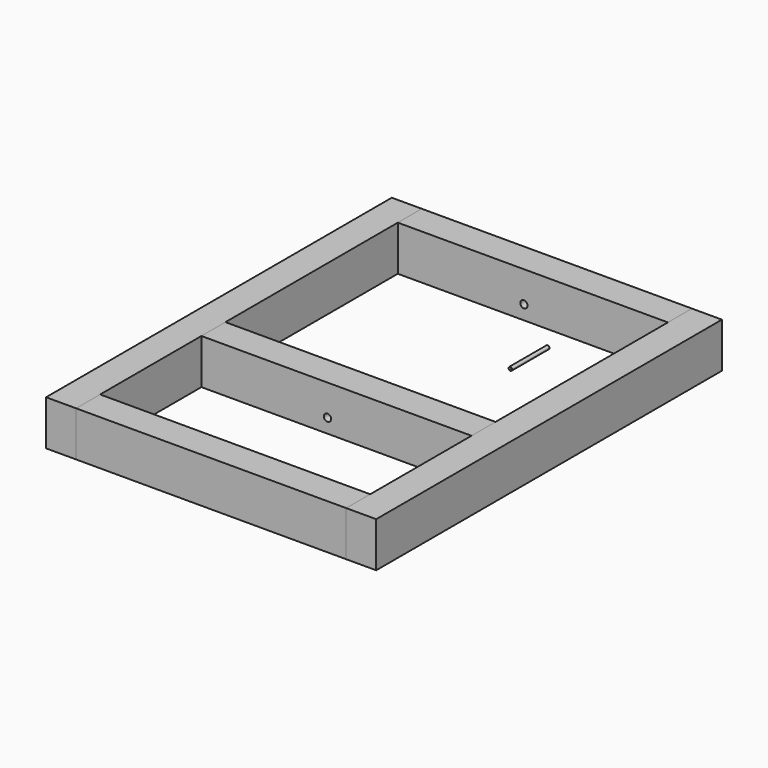
from build123d import *

# Parameters (mm, degrees)
F0_W      = 450
F0_H      = 75
F0_R      = 6
F1_DEPTH  = 50
F0_W_2    = 50
F2_DEPTH  = 720
F3_DEPTH  = 720
F5_W      = 450
F5_H      = 75
F5_R      = 6
F6_DEPTH  = 50
F8_W      = 450
F8_H      = 75
F9_DEPTH  = 50
F10_DEPTH = 78.5
F0_R_2    = 3
F11_SIZE  = 0.5
F13_DEPTH = 720
F15_DEPTH = 720


with BuildPart() as f1:
    # F0 (on Front) → F1 (new body)
    with BuildSketch(Plane.XZ):
        Rectangle(F0_W, F0_H)
        with Locations((-15, -14)):
            Circle(F0_R, mode=Mode.SUBTRACT)
    extrude(amount=F1_DEPTH)


with BuildPart() as f2:
    # F0 (on Front) → F2 (new body)
    with BuildSketch(Plane.XZ):
        with Locations((250, 0)):
            Rectangle(F0_W_2, F0_H)
    extrude(amount=F2_DEPTH)


with BuildPart() as f3:
    # F0 (on Front) → F3 (new body)
    with BuildSketch(Plane.XZ):
        with Locations((-250, 0)):
            Rectangle(F0_W_2, F0_H)
    extrude(amount=F3_DEPTH)


with BuildPart() as f6:
    # F5 (on offset) → F6 (new body)
    with BuildSketch(Plane(origin=(0, -409, 0), x_dir=(-1, 0, 0), z_dir=(0, 1, 0))):
        Rectangle(F5_W, F5_H)
        with Locations((15, -14)):
            Circle(F5_R, mode=Mode.SUBTRACT)
    extrude(amount=-F6_DEPTH)


with BuildPart() as f9:
    # F8 (on offset) → F9 (new body)
    with BuildSketch(Plane(origin=(0, -720, 0), x_dir=(-1, 0, 0), z_dir=(0, 1, 0))):
        Rectangle(F8_W, F8_H)
    extrude(amount=F9_DEPTH)


with BuildPart() as f10:
    # F0 (on Front) → F10 (new body)
    with BuildSketch(Plane.XZ):
        Rectangle(F0_W, F0_H)
        with Locations((-15, -14)):
            Circle(F0_R, mode=Mode.SUBTRACT)
        with Locations((250, 0)):
            Rectangle(F0_W_2, F0_H)
        with Locations((-250, 0)):
            Rectangle(F0_W_2, F0_H)
    extrude(amount=F10_DEPTH)


with BuildPart() as f10b:
    # F0 (on Front) → F10, piece 2 (new body)
    with BuildSketch(Plane.XZ):
        with Locations((-15, -97.2128808498)):
            Circle(F0_R_2)
    extrude(amount=F10_DEPTH)

    # F11
    f11_edges = [f10b.edges().sort_by_distance(p)[0] for p in [
        (-18, 0, -97.212881),
        (-18, -78.5, -97.212881),
    ]]
    chamfer(f11_edges, length=F11_SIZE)


with BuildPart() as f13:
    # F0 (on Front) → F13 (new body)
    with BuildSketch(Plane.XZ):
        with Locations((250, 0)):
            Rectangle(F0_W_2, F0_H)
    extrude(amount=F13_DEPTH)


with BuildPart() as f15:
    # F0 (on Front) → F15 (new body)
    with BuildSketch(Plane.XZ):
        with Locations((250, 0)):
            Rectangle(F0_W_2, F0_H)
    extrude(amount=F15_DEPTH)


solid = Compound([f1.part, f3.part, f6.part, f9.part, f10b.part, f15.part])
